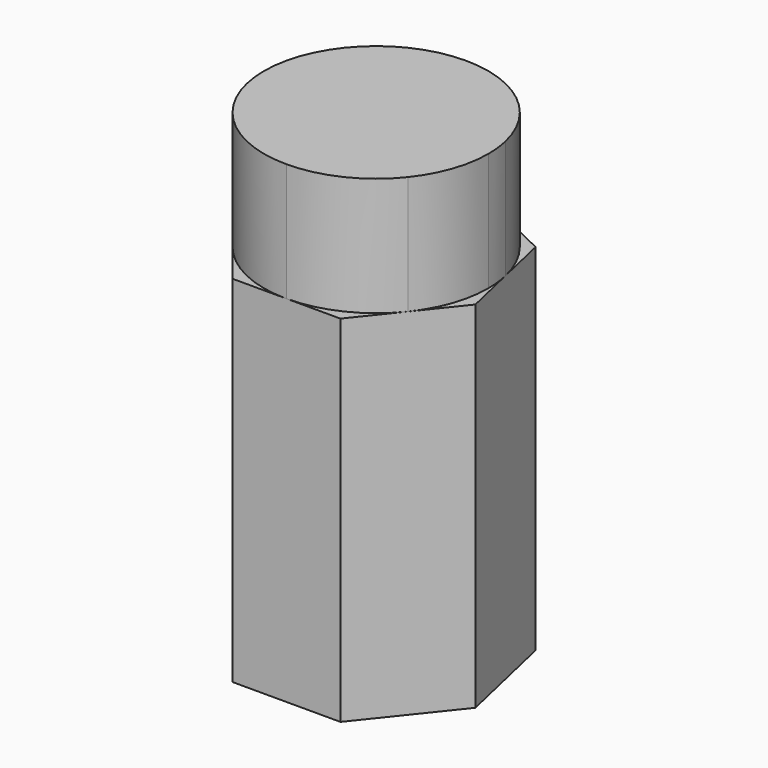
from build123d import *

# Parameters (mm, degrees)
F0_R     = 4.7625
F1_DEPTH = 19.05
F4_R     = 6.0191962191


with BuildPart() as f1:
    # F0 (on Top) → F1 (new body)
    with BuildSketch(Plane.XY):
        Polygon((5.2232627241, 4.1654130256), (0, 6.6808037809), (-5.2232627241, 4.1654130256), (-6.5133020818, -1.4866186969), (-2.8986921248, -6.0191962191), (2.8986921248, -6.0191962191), (6.5133020818, -1.4866186969), align=None)
        Circle(F0_R, mode=Mode.SUBTRACT)
        Circle(F0_R)
    extrude(amount=F1_DEPTH)

    # F2 (on face) → F5 section 0
    with BuildSketch(Plane.XY.offset(19.05)):
        with BuildLine():
            ThreePointArc((4.7059970769, -3.7529074911), (5.6814189661, -1.9880145009), (6.0191962191, 0))
            ThreePointArc((6.0191962191, 0), (5.9813487804, 0.6739361184), (5.8682824176, 1.3393970999))
            ThreePointArc((5.8682824176, 1.3393970999), (4.7059971119, 3.7529074472), (2.6116313274, 5.4231084199))
            ThreePointArc((2.6116313274, 5.4231084199), (-1.32e-08, 6.0191962191), (-2.6116313513, 5.4231084084))
            ThreePointArc((-2.6116313513, 5.4231084084), (-4.7059970812, 3.7529074856), (-5.8682823899, 1.3393972216))
            ThreePointArc((-5.8682823899, 1.3393972216), (-5.8682824076, -1.3393971439), (-4.7059970929, -3.752907471))
            ThreePointArc((-4.7059970929, -3.752907471), (-2.6116313545, -5.4231084068), (0, -6.0191962191))
            ThreePointArc((0, -6.0191962191), (2.611631343, -5.4231084124), (4.7059970769, -3.7529074911))
        make_face()
    # F4 (on offset) → F5 section 1
    with BuildSketch(Plane.XY.offset(25.4)):
        Circle(F4_R)
    loft()


solid = f1.part
